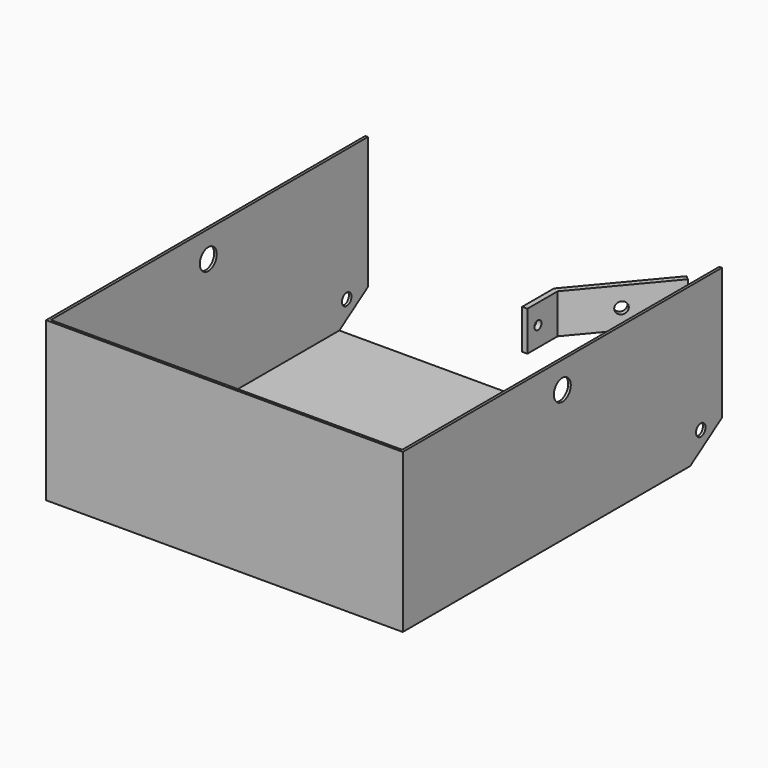
from build123d import *

# Parameters (mm, degrees)
F1_DEPTH  = 150
F2_W      = 135
F2_H      = 60
F3_DEPTH  = 1
F5_D      = 4.5
F7_D      = 8
F9_DEPTH  = 7.5
F11_D     = 3.3
F13_D     = 4.4
F15_DEPTH = 140


with BuildPart() as f1:
    # F0 (on Front) → F1 (new body)
    with BuildSketch(Plane.XZ):
        Polygon((-67.5, -20), (67.5, -20), (67.5, 40), (66.5, 40), (66.5, -19), (-66.5, -19), (-66.5, 40), (-67.5, 40), align=None)
    extrude(amount=F1_DEPTH)

    # F2 (on face) → F3 (join)
    with BuildSketch(Plane.XZ.offset(150)):
        with Locations((0, 10)):
            Rectangle(F2_W, F2_H)
    extrude(amount=F3_DEPTH)

    # F5 (through all)
    with Locations(Plane(origin=(-67.5, 0, 0), x_dir=(0, -1, 0), z_dir=(-1, 0, 0))):
        with Locations((10, -10)):
            Hole(F5_D / 2)

    # F7 (through all)
    with Locations(Plane(origin=(-67.5, 0, 0), x_dir=(0, -1, 0), z_dir=(-1, 0, 0))):
        with Locations((75.5, 30)):
            Hole(F7_D / 2)

    # F14 (on face) → F15 (cut)
    with BuildSketch(Plane.YZ.offset(67.5)):
        Polygon((0, -10), (-15, -20), (0, -20), align=None)
    extrude(amount=-F15_DEPTH, mode=Mode.SUBTRACT)


with BuildPart() as f9:
    # F8 (on Top) → F9 (new body, symmetric)
    with BuildSketch(Plane.XY):
        Polygon((-2, 7.3540675081), (-2, -7.6459324919), (0, -7.6459324919), (0, 6.6261270396), (25.2435932737, 36.7102700135), (23.7115043875, 37.9958452329), align=None)
    extrude(amount=F9_DEPTH, both=True)

    # F11 (through all)
    with Locations(Plane.YZ):
        with Locations((-2.6459324919, 0)):
            Hole(F11_D / 2)

    # F13 (through all)
    with Locations(Plane(origin=(-3.2627306405, 2.7377560771, 0), x_dir=(0.6427876097, 0.7660444431, 0), z_dir=(0.7660444431, -0.6427876097, 0))):
        with Locations((24.3479673296, 0), (39.3479673296, 0)):
            Hole(F13_D / 2)


solid = Compound([f1.part, f9.part])
